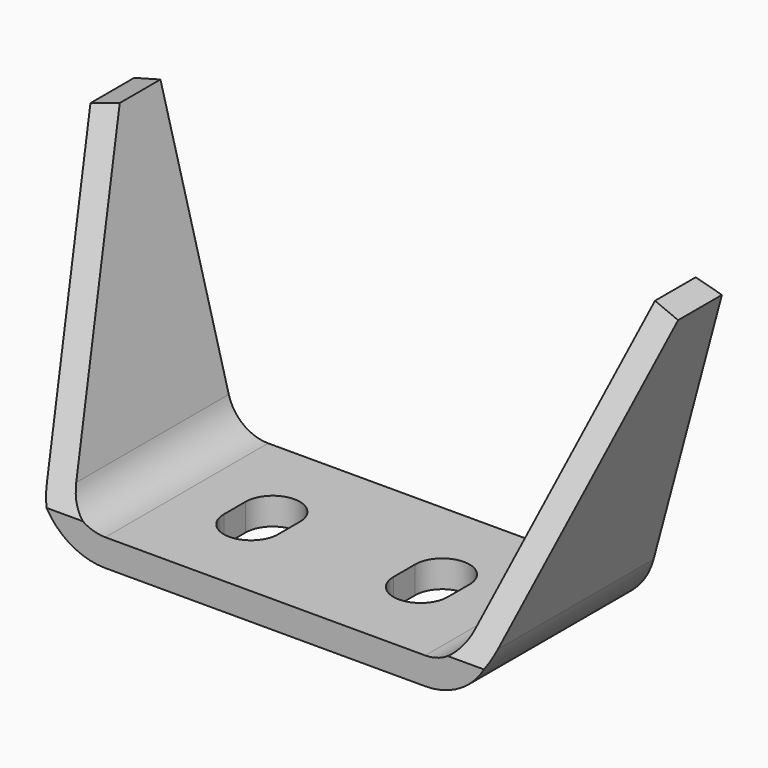
from build123d import *

# Parameters (mm, degrees)
F1_DEPTH      = 60
F3_DEPTH      = 86.6164273188
F3_DEPTH_BACK = 86.6164273188
F5_DEPTH      = 8.001


with BuildPart() as f1:
    # F0 (on Front) → F1 (new body)
    with BuildSketch(Plane.XZ):
        with BuildLine():
            ThreePointArc((-66.4719767662, 14.8236190979), (-59.3286888206, 4.1329331942), (-47.1534602404, 0))
            Line((-47.1534602404, 0), (47.1534602404, 0))
            ThreePointArc((47.1534602404, 0), (59.3286888206, 4.1329331942), (66.4719767662, 14.8236190979))
            Line((66.4719767662, 14.8236190979), (86.6154273188, 90))
            Line((86.6154273188, 90), (78.8880207085, 92.0705523608))
            Line((78.8880207085, 92.0705523608), (58.7445701559, 16.8941714588))
            ThreePointArc((58.7445701559, 16.8941714588), (54.4585973885, 10.4797599165), (47.1534602404, 8))
            Line((47.1534602404, 8), (-47.1534602404, 8))
            ThreePointArc((-47.1534602404, 8), (-54.4585973885, 10.4797599165), (-58.7445701559, 16.8941714588))
            Line((-58.7445701559, 16.8941714588), (-78.8880207085, 92.0705523608))
            Line((-78.8880207085, 92.0705523608), (-86.6154273188, 90))
            Line((-86.6154273188, 90), (-66.4719767662, 14.8236190979))
        make_face()
    extrude(amount=F1_DEPTH)

    # F2 (on Right) → F3 (cut, two sides)
    with BuildSketch(Plane.YZ) as f3_sk:
        Polygon((-15, 92.0705523608), (-60, 92.0705523608), (-60, 10), align=None)
    extrude(amount=-F3_DEPTH, mode=Mode.SUBTRACT)
    extrude(f3_sk.sketch, amount=F3_DEPTH_BACK, mode=Mode.SUBTRACT)

    # F4 (on face) → F5 (cut, through all)
    with BuildSketch(Plane.XY.offset(8)):
        with BuildLine():
            Line((-33, -26), (-33, -34))
            ThreePointArc((-33, -34), (-25, -42), (-17, -34))
            Line((-17, -34), (-17, -26))
            ThreePointArc((-17, -26), (-25, -18), (-33, -26))
        make_face()
        with BuildLine():
            ThreePointArc((33, -26), (25, -18), (17, -26))
            Line((17, -26), (17, -34))
            ThreePointArc((17, -34), (25, -42), (33, -34))
            Line((33, -34), (33, -26))
        make_face()
    extrude(amount=-F5_DEPTH, mode=Mode.SUBTRACT)


solid = f1.part
